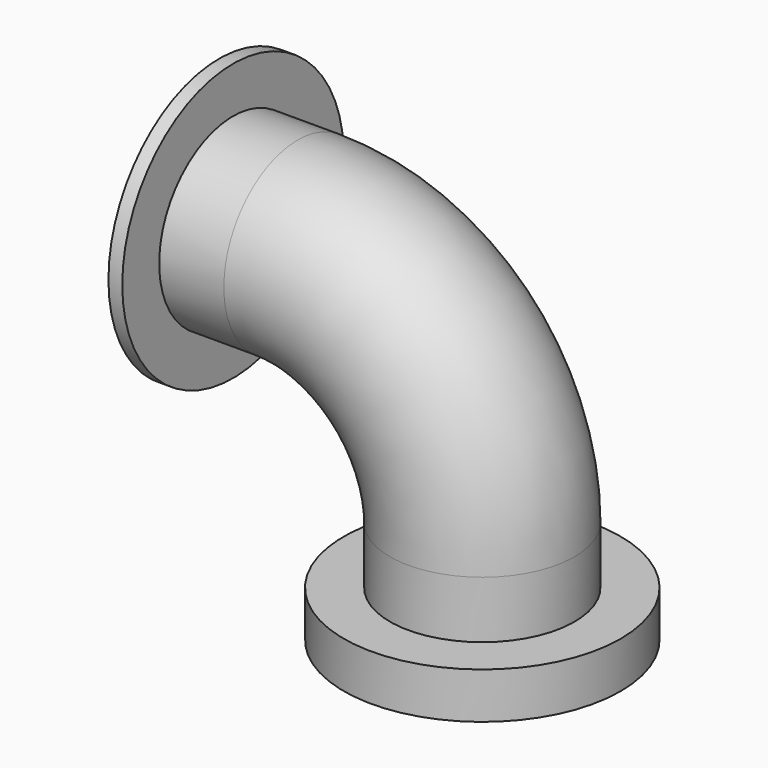
from build123d import *

# Parameters (mm, degrees)
F0_R     = 20
F0_R_2   = 10
F4_R     = 30
F4_R_2   = 20
F5_DEPTH = 3
F7_R     = 30
F7_R_2   = 20
F8_DEPTH = 10


with BuildPart() as f2:
    # F2: sweep along a path in F1
    with BuildLine(Plane.XZ) as f2_path:
        Line((0, 0), (20, 0))
        ThreePointArc((20, 0), (48.2842712475, -11.7157287525), (60, -40))
        Line((60, -40), (60, -65.3837376879))
    # F0 (on Right) → F2 (sweep)
    with BuildSketch(Plane.YZ):
        Circle(F0_R)
        Circle(F0_R_2, mode=Mode.SUBTRACT)
    sweep(path=f2_path.line)

    # F4 (on offset) → F5 (join)
    with BuildSketch(Plane(origin=(3, 0, 0), x_dir=(0, -1, 0), z_dir=(-1, 0, 0))):
        Circle(F4_R)
        Circle(F4_R_2, mode=Mode.SUBTRACT)
    extrude(amount=-F5_DEPTH)

    # F7 (on offset) → F8 (join)
    with BuildSketch(Plane(origin=(0, 0, -62.3837376879), x_dir=(1, 0, 0), z_dir=(0, 0, -1))):
        with Locations((60, 0)):
            Circle(F7_R)
        with Locations((60, 0)):
            Circle(F7_R_2, mode=Mode.SUBTRACT)
    extrude(amount=-F8_DEPTH)


solid = f2.part
